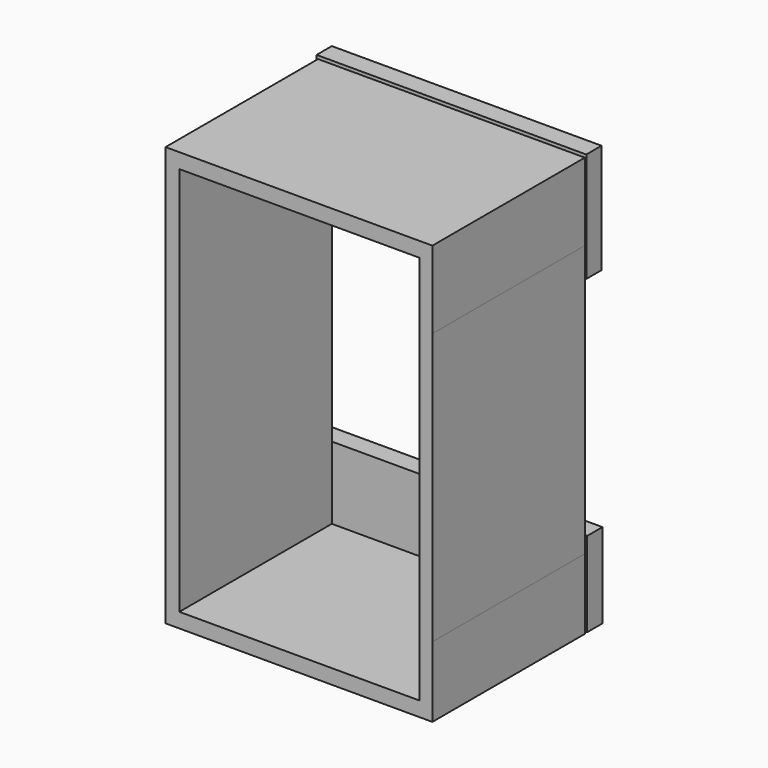
from build123d import *

# Parameters (mm, degrees)
F0_W     = 3.624996
F0_H     = 71.177084
F0_W_2   = 3.375001
F1_DEPTH = 50
F2_DEPTH = 25
F3_W     = 70.750002
F3_H     = 28.750004
F3_W_2   = 71.250003
F3_H_2   = 22.250004
F4_DEPTH = 5


with BuildPart() as f1:
    # F0 (on Front) → F1 (new body)
    with BuildSketch(Plane.XZ):
        Polygon((34.25, 55.528098), (-35.75, 55.528098), (-35.75, 35.21125), (-32.125004, 35.21125), (-32.125004, 51.622394), (30.874999, 51.622394), (30.874999, 35.21125), (34.25, 35.21125), align=None)
        with Locations((-33.937502, -0.377292)):
            Rectangle(F0_W, F0_H)
        with Locations((32.5625, -0.377292)):
            Rectangle(F0_W_2, F0_H)
        Polygon((-32.125004, -35.965834), (-35.75, -35.965834), (-35.75, -54.471902), (34.25, -54.471902), (34.25, -35.965834), (30.874999, -35.965834), (30.874999, -50.627608), (-32.125004, -50.627608), align=None)
    extrude(amount=F1_DEPTH)

    # F0 (on Front) → F2 (join)
    with BuildSketch(Plane.XZ):
        Polygon((34.25, 55.528098), (-35.75, 55.528098), (-35.75, 35.21125), (-32.125004, 35.21125), (-32.125004, 51.622394), (30.874999, 51.622394), (30.874999, 35.21125), (34.25, 35.21125), align=None)
        with Locations((-33.937502, -0.377292)):
            Rectangle(F0_W, F0_H)
        with Locations((32.5625, -0.377292)):
            Rectangle(F0_W_2, F0_H)
        Polygon((-32.125004, -35.965834), (-35.75, -35.965834), (-35.75, -54.471902), (34.25, -54.471902), (34.25, -35.965834), (30.874999, -35.965834), (30.874999, -50.627608), (-32.125004, -50.627608), align=None)
    extrude(amount=F2_DEPTH)

    # F3 (on Front) → F4 (join)
    with BuildSketch(Plane.XZ):
        with Locations((-0.75, 41.997398)):
            Rectangle(F3_W, F3_H)
        with Locations((-0.75, -42.752605)):
            Rectangle(F3_W_2, F3_H_2)
    extrude(amount=-F4_DEPTH)


solid = f1.part
